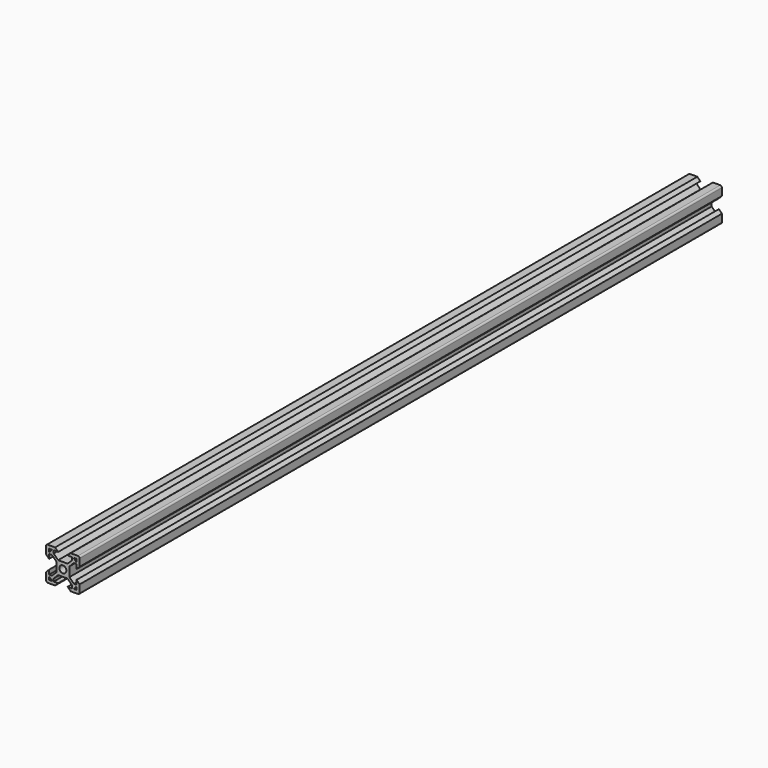
from build123d import *

# Parameters (mm, degrees)
F0_R     = 2.0955
F2_DEPTH = 478


with BuildPart() as f2:
    # F0 (on Front) → F2 (new body)
    with BuildSketch(Plane.XZ):
        with BuildLine():
            Line((-4.6246692655, 9.9949), (-9.0043, 9.9949))
            ThreePointArc((-9.0043, 9.9949), (-9.7047599774, 9.7047599774), (-9.9949, 9.0043))
            Line((-9.9949, 9.0043), (-9.9949, 4.6246692655))
            Line((-9.9949, 4.6246692655), (-8.1915, 2.8212692655))
            Line((-8.1915, 2.8212692655), (-8.1915, 5.4628692655))
            Line((-8.1915, 5.4628692655), (-6.5405, 5.4628692655))
            Line((-6.5405, 5.4628692655), (-3.8989, 2.8212692655))
            Line((-3.8989, 2.8212692655), (-3.8989, -2.8212692655))
            Line((-3.8989, -2.8212692655), (-6.5405, -5.4628692655))
            Line((-6.5405, -5.4628692655), (-8.1915, -5.4628692655))
            Line((-8.1915, -5.4628692655), (-8.1915, -2.8212692655))
            Line((-8.1915, -2.8212692655), (-9.9949, -4.6246692655))
            Line((-9.9949, -4.6246692655), (-9.9949, -9.0043))
            ThreePointArc((-9.9949, -9.0043), (-9.7047599774, -9.7047599774), (-9.0043, -9.9949))
            Line((-9.0043, -9.9949), (-4.6246692655, -9.9949))
            Line((-4.6246692655, -9.9949), (-2.8212692655, -8.1915))
            Line((-2.8212692655, -8.1915), (-5.4628692655, -8.1915))
            Line((-5.4628692655, -8.1915), (-5.4628692655, -6.5405))
            Line((-5.4628692655, -6.5405), (-2.8212692655, -3.8989))
            Line((-2.8212692655, -3.8989), (2.8212692655, -3.8989))
            Line((2.8212692655, -3.8989), (5.4628692655, -6.5405))
            Line((5.4628692655, -6.5405), (5.4628692655, -8.1915))
            Line((5.4628692655, -8.1915), (2.8212692655, -8.1915))
            Line((2.8212692655, -8.1915), (4.6246692655, -9.9949))
            Line((4.6246692655, -9.9949), (9.0043, -9.9949))
            ThreePointArc((9.0043, -9.9949), (9.7047599774, -9.7047599774), (9.9949, -9.0043))
            Line((9.9949, -9.0043), (9.9949, -4.6246692655))
            Line((9.9949, -4.6246692655), (8.1915, -2.8212692655))
            Line((8.1915, -2.8212692655), (8.1915, -5.4628692655))
            Line((8.1915, -5.4628692655), (6.5405, -5.4628692655))
            Line((6.5405, -5.4628692655), (3.8989, -2.8212692655))
            Line((3.8989, -2.8212692655), (3.8989, 2.8212692655))
            Line((3.8989, 2.8212692655), (6.5405, 5.4628692655))
            Line((6.5405, 5.4628692655), (8.1915, 5.4628692655))
            Line((8.1915, 5.4628692655), (8.1915, 2.8212692655))
            Line((8.1915, 2.8212692655), (9.9949, 4.6246692655))
            Line((9.9949, 4.6246692655), (9.9949, 9.0043))
            ThreePointArc((9.9949, 9.0043), (9.7047599774, 9.7047599774), (9.0043, 9.9949))
            Line((9.0043, 9.9949), (4.6246692655, 9.9949))
            Line((4.6246692655, 9.9949), (2.8212692655, 8.1915))
            Line((2.8212692655, 8.1915), (5.4628692655, 8.1915))
            Line((5.4628692655, 8.1915), (5.4628692655, 6.5405))
            Line((5.4628692655, 6.5405), (2.8212692655, 3.8989))
            Line((2.8212692655, 3.8989), (-2.8212692655, 3.8989))
            Line((-2.8212692655, 3.8989), (-5.4628692655, 6.5405))
            Line((-5.4628692655, 6.5405), (-5.4628692655, 8.1915))
            Line((-5.4628692655, 8.1915), (-2.8212692655, 8.1915))
            Line((-2.8212692655, 8.1915), (-4.6246692655, 9.9949))
        make_face()
        with BuildLine():
            ThreePointArc((-8.0391, -8.1915), (-8.1468630735, -8.1468630735), (-8.1915, -8.0391))
            Line((-8.1915, -8.0391), (-8.1915, -6.6929))
            ThreePointArc((-8.1915, -6.6929), (-8.1468630735, -6.5851369265), (-8.0391, -6.5405))
            Line((-8.0391, -6.5405), (-7.9883, -6.5405))
            Line((-7.9883, -6.5405), (-6.5405, -7.9883))
            Line((-6.5405, -7.9883), (-6.5405, -8.0391))
            ThreePointArc((-6.5405, -8.0391), (-6.5851369265, -8.1468630735), (-6.6929, -8.1915))
            Line((-6.6929, -8.1915), (-8.0391, -8.1915))
        make_face(mode=Mode.SUBTRACT)
        with BuildLine():
            Line((8.1915, -6.6929), (8.1915, -8.0391))
            ThreePointArc((8.1915, -8.0391), (8.1468630735, -8.1468630735), (8.0391, -8.1915))
            Line((8.0391, -8.1915), (6.6929, -8.1915))
            ThreePointArc((6.6929, -8.1915), (6.5851369265, -8.1468630735), (6.5405, -8.0391))
            Line((6.5405, -8.0391), (6.5405, -7.9883))
            Line((6.5405, -7.9883), (7.9883, -6.5405))
            Line((7.9883, -6.5405), (8.0391, -6.5405))
            ThreePointArc((8.0391, -6.5405), (8.1468630735, -6.5851369265), (8.1915, -6.6929))
        make_face(mode=Mode.SUBTRACT)
        with BuildLine():
            Line((-7.9883, 6.5405), (-8.0391, 6.5405))
            ThreePointArc((-8.0391, 6.5405), (-8.1468630735, 6.5851369265), (-8.1915, 6.6929))
            Line((-8.1915, 6.6929), (-8.1915, 8.0391))
            ThreePointArc((-8.1915, 8.0391), (-8.1468630735, 8.1468630735), (-8.0391, 8.1915))
            Line((-8.0391, 8.1915), (-6.6929, 8.1915))
            ThreePointArc((-6.6929, 8.1915), (-6.5851369265, 8.1468630735), (-6.5405, 8.0391))
            Line((-6.5405, 8.0391), (-6.5405, 7.9883))
            Line((-6.5405, 7.9883), (-7.9883, 6.5405))
        make_face(mode=Mode.SUBTRACT)
        Circle(F0_R, mode=Mode.SUBTRACT)
        with BuildLine():
            ThreePointArc((8.1915, 6.6929), (8.1468630735, 6.5851369265), (8.0391, 6.5405))
            Line((8.0391, 6.5405), (7.9883, 6.5405))
            Line((7.9883, 6.5405), (6.5405, 7.9883))
            Line((6.5405, 7.9883), (6.5405, 8.0391))
            ThreePointArc((6.5405, 8.0391), (6.5851369265, 8.1468630735), (6.6929, 8.1915))
            Line((6.6929, 8.1915), (8.0391, 8.1915))
            ThreePointArc((8.0391, 8.1915), (8.1468630735, 8.1468630735), (8.1915, 8.0391))
            Line((8.1915, 8.0391), (8.1915, 6.6929))
        make_face(mode=Mode.SUBTRACT)
    extrude(amount=F2_DEPTH)


solid = f2.part
